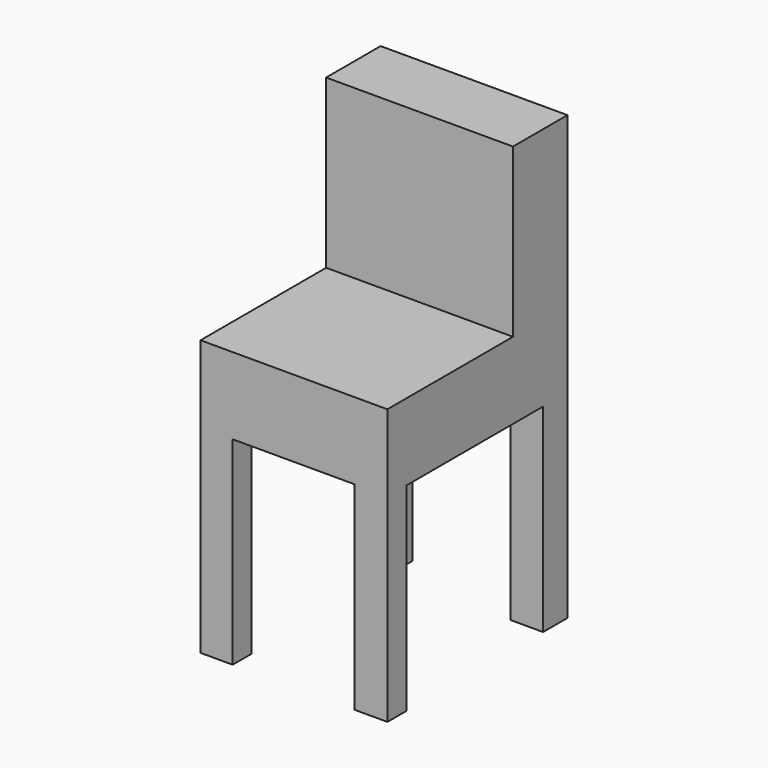
from build123d import *

# Parameters (mm, degrees)
F0_W     = 105.4313331842
F0_H     = 68.6848964542
F1_DEPTH = 127
F2_DEPTH = 25.4
F3_W     = 105.4313331842
F3_H     = 38.4183302522
F4_DEPTH = 94.488
F5_W     = 18.094740808
F5_H     = 17.1922501177
F5_W_2   = 18.4211255983
F5_H_2   = 13.3941207528
F6_DEPTH = 112.014


with BuildPart() as f1:
    # F0 (on Front) → F1 (new body)
    with BuildSketch(Plane.XZ):
        with Locations((-19.3043276668, -17.4522669986)):
            Rectangle(F0_W, F0_H)
    extrude(amount=F1_DEPTH)

    # F2 (cut): a face of the model
    f2_faces = [f1.faces().sort_by_distance(p)[0] for p in [
        (-19.3043276668, -63.5, 16.8901812285),
    ]]
    extrude(f2_faces, amount=-F2_DEPTH, mode=Mode.SUBTRACT)

    # F3 (on face) → F4 (join)
    with BuildSketch(Plane.XY.offset(-8.5098187715)):
        with Locations((-19.3043276668, -19.2091651261)):
            Rectangle(F3_W, F3_H)
    extrude(amount=F4_DEPTH)

    # F5 (on face) → F6 (join)
    with BuildSketch(Plane(origin=(0, 0, -51.7947152257), x_dir=(1, 0, 0), z_dir=(0, 0, -1))):
        with Locations((-62.9726238549, 8.5961250588)):
            Rectangle(F5_W, F5_H)
        with Locations((24.2007761262, 8.5961250588)):
            Rectangle(F5_W_2, F5_H)
        with Locations((24.2007761262, 120.3029396236)):
            Rectangle(F5_W_2, F5_H_2)
        with Locations((-62.9726238549, 120.3029396236)):
            Rectangle(F5_W, F5_H_2)
    extrude(amount=F6_DEPTH)


solid = f1.part
